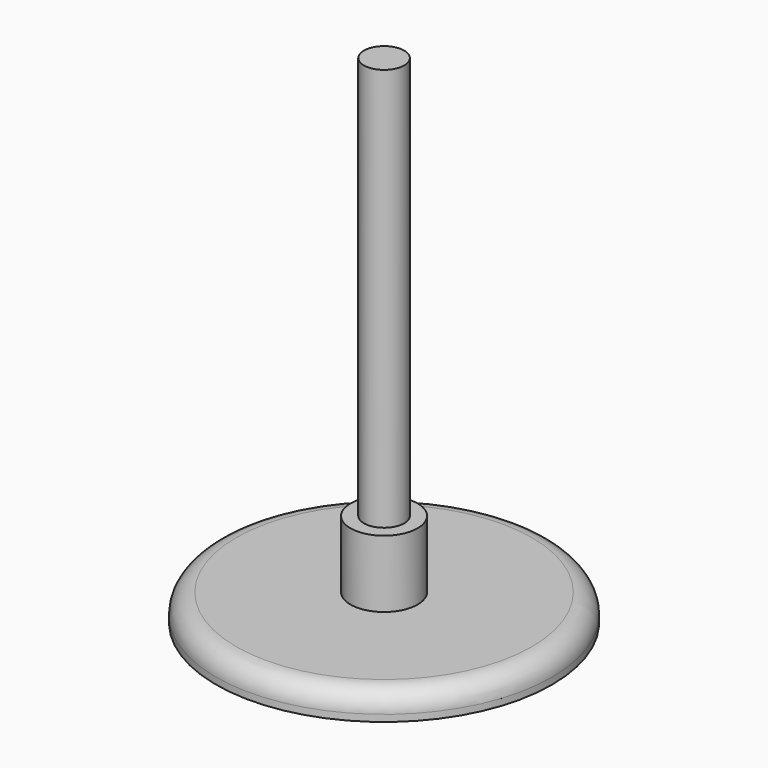
from build123d import *

# Parameters (mm, degrees)
SKETCH_R     = 125
PAD_DEPTH    = 20
SKETCH001_R  = 25
PAD001_DEPTH = 50
FILLET006_R  = 15
SKETCH002_R  = 15
PAD002_DEPTH = 300


with BuildPart() as body1:
    # Sketch → Pad (new body)
    with BuildSketch(Plane.XY):
        Circle(SKETCH_R)
    extrude(amount=PAD_DEPTH)

    # Sketch001 (on Face3 of Pad) → Pad001 (join)
    with BuildSketch(Plane.XY.offset(20)):
        Circle(SKETCH001_R)
    extrude(amount=PAD001_DEPTH)

    # Fillet006
    fillet006_edges = [body1.edges().sort_by_distance(p)[0] for p in [
        (-125, 0, 20),
    ]]
    fillet(fillet006_edges, radius=FILLET006_R)


with BuildPart() as body2:
    # Sketch002 (on CopyPad) → Pad002 (new body)
    with BuildSketch(Plane.XY.offset(70)):
        Circle(SKETCH002_R)
    extrude(amount=PAD002_DEPTH)


solid = Compound([body1.part, body2.part])
